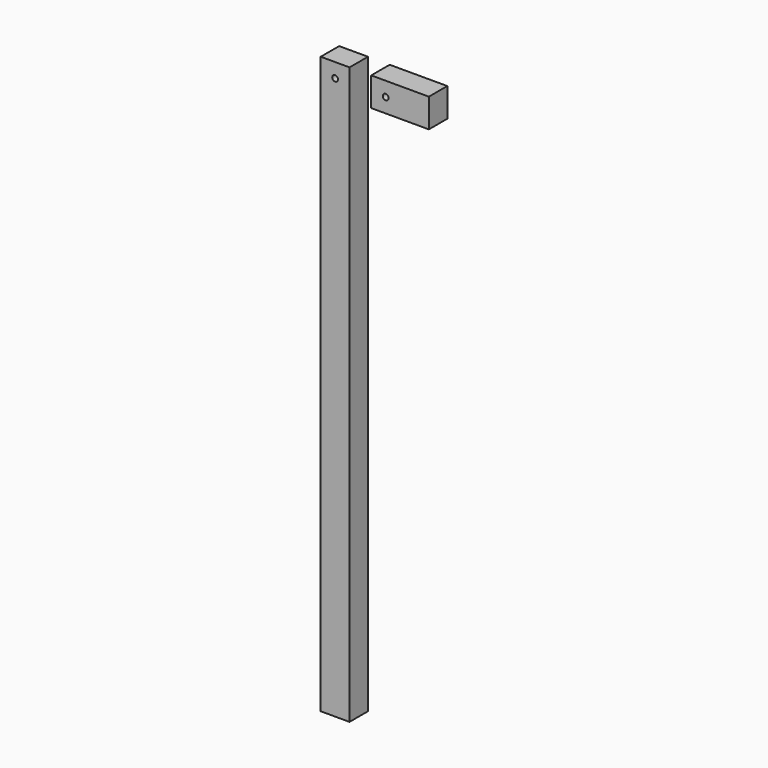
from build123d import *

# Parameters (mm, degrees)
F0_W          = 101.6
F0_H          = 50.8
F0_R          = 5.08
F1_DEPTH      = 15.24
F1_DEPTH_BACK = 25.4
F0_W_2        = 50.8
F0_H_2        = 1016


with BuildPart() as f1:
    # F0 (on Front) → F1 (new body, two sides)
    with BuildSketch(Plane.XZ) as f1_sk:
        with Locations((114.4596828699, 482.6)):
            Rectangle(F0_W, F0_H)
        with Locations((89.0596828699, 482.6)):
            Circle(F0_R, mode=Mode.SUBTRACT)
    extrude(amount=-F1_DEPTH)
    extrude(f1_sk.sketch, amount=F1_DEPTH_BACK)


with BuildPart() as f1b:
    # F0 (on Front) → F1, piece 2 (new body, two sides)
    with BuildSketch(Plane.XZ) as f1_2_sk:
        Rectangle(F0_W_2, F0_H_2)
        with Locations((0, 482.6)):
            Circle(F0_R, mode=Mode.SUBTRACT)
    extrude(amount=-F1_DEPTH)
    extrude(f1_2_sk.sketch, amount=F1_DEPTH_BACK)


solid = Compound([f1.part, f1b.part])
